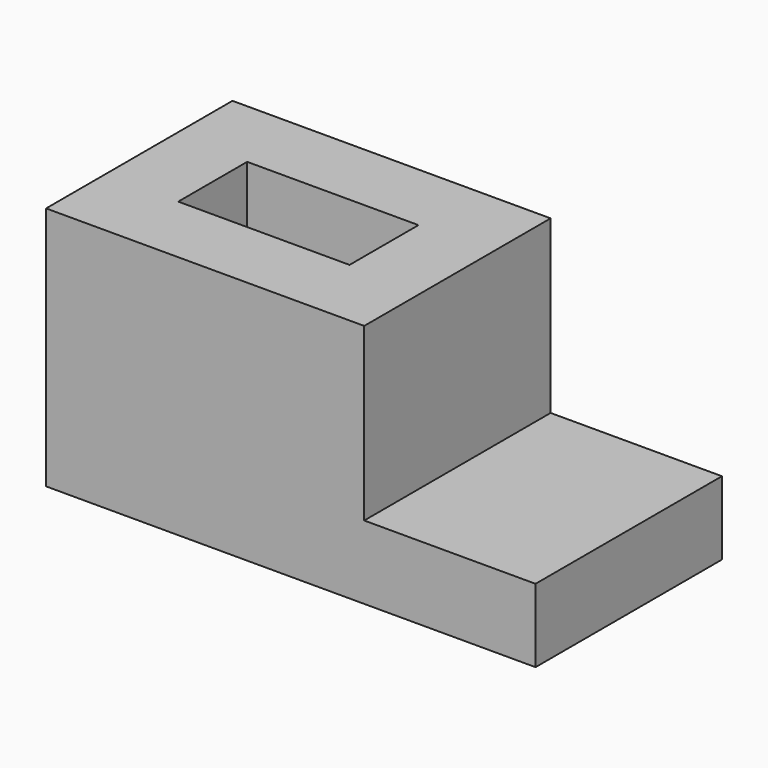
from build123d import *

# Parameters (mm, degrees)
F0_W     = 127
F0_H     = 60.452662
F1_DEPTH = 63.5
F2_W     = 44.45
F2_H     = 22.352662
F3_DEPTH = 63.501
F4_W     = 44.45
F4_H     = 44.45
F5_DEPTH = 63.5


with BuildPart() as f1:
    # F0 (on Top) → F1 (new body)
    with BuildSketch(Plane.XY):
        with Locations((63.5, 30.226331)):
            Rectangle(F0_W, F0_H)
    extrude(amount=F1_DEPTH)

    # F2 (on face) → F3 (cut, through all)
    with BuildSketch(Plane.XY.offset(63.5)):
        with Locations((41.275, 30.226331)):
            Rectangle(F2_W, F2_H)
    extrude(amount=-F3_DEPTH, mode=Mode.SUBTRACT)

    # F4 (on face) → F5 (cut)
    with BuildSketch(Plane.XZ):
        with Locations((104.775, 41.275)):
            Rectangle(F4_W, F4_H)
    extrude(amount=-F5_DEPTH, mode=Mode.SUBTRACT)


solid = f1.part
